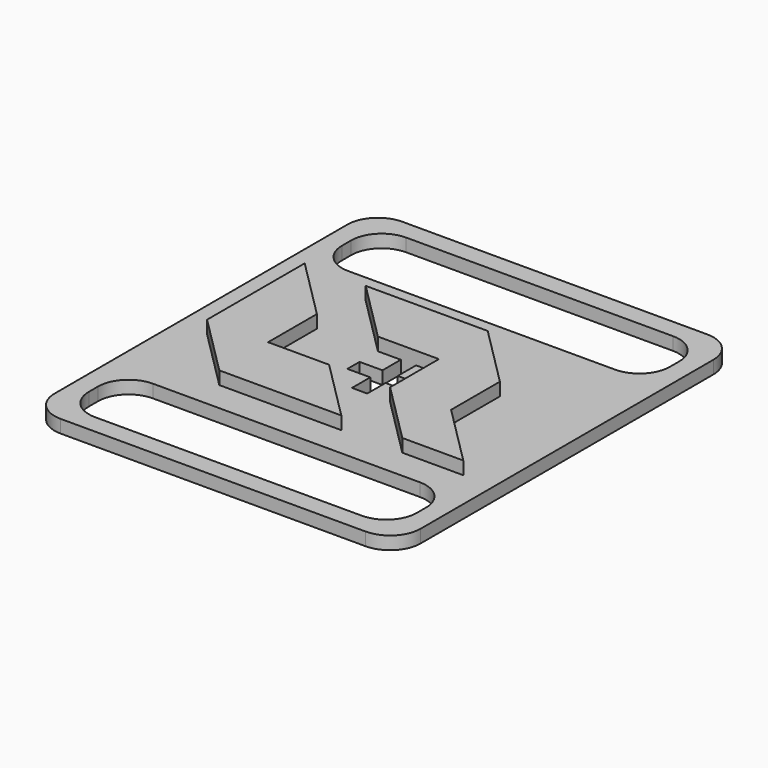
from build123d import *

# Parameters (mm, degrees)
F1_DEPTH = 4.318
F0_W     = 60.96
F0_H     = 71.12
F0_W_2   = 54.61
F0_H_2   = 12.065
F0_W_3   = 3.81
F0_H_3   = 3.81
F2_DEPTH = 2.159
F3_R     = 5.08


with BuildPart() as f1:
    # F0 (on Top) → F1 (new body)
    with BuildSketch(Plane.XY):
        Polygon((-10.2077507393, 20.6597218627), (-20.3677507393, 30.8197218627), (-20.3677507393, 20.6597218627), align=None)
        Polygon((-10.2077507393, 20.6597218627), (-20.3677507393, 20.6597218627), (-20.3677507393, 10.4997218627), align=None)
        Polygon((-10.2077507393, 10.4997218627), (-10.2077507393, 20.6597218627), (-20.3677507393, 10.4997218627), align=None)
        Polygon((-10.2077507393, 10.4997218627), (-20.3677507393, 10.4997218627), (-10.2077507393, 0.3397218627), align=None)
        Polygon((-0.0477507393, 10.4997218627), (-10.2077507393, 10.4997218627), (-10.2077507393, 0.3397218627), (10.1122492607, 0.3397218627), align=None)
    extrude(amount=F1_DEPTH)



with BuildPart() as f1b:
    # F0 (on Top) → F1, piece 2 (new body)
    with BuildSketch(Plane.XY):
        Polygon((-0.0477507393, 30.8197218627), (-10.2077507393, 30.8197218627), (-0.0477507393, 20.6597218627), align=None)
        Polygon((10.1122492607, 20.6597218627), (-0.0477507393, 30.8197218627), (-0.0477507393, 20.6597218627), (3.7622492607, 20.6597218627), (6.3022492607, 20.6597218627), align=None)
        Polygon((10.1122492607, 30.8197218627), (-0.0477507393, 30.8197218627), (10.1122492607, 20.6597218627), align=None)
        Polygon((20.2722492607, 20.6597218627), (10.1122492607, 30.8197218627), (10.1122492607, 20.6597218627), align=None)
        Polygon((20.2722492607, 20.6597218627), (10.1122492607, 20.6597218627), (10.1122492607, 16.8497218627), (10.1122492607, 14.3097218627), (10.1122492607, 10.4997218627), (20.2722492607, 0.3397218627), (30.4322492607, 0.3397218627), (20.2722492607, 10.4997218627), align=None)
    extrude(amount=F1_DEPTH)


with BuildPart() as f1_1:
    add(f1.part)

    add(f1b.part)  # F2 merges F1b
    # F0 (on Top) → F2 (join)
    with BuildSketch(Plane.XY):
        with Locations((5.0322492607, 15.5797218627)):
            Rectangle(F0_W, F0_H)
        Polygon((-20.3677507393, 20.6597218627), (-20.3677507393, 30.8197218627), (-10.2077507393, 20.6597218627), (-10.2077507393, 10.4997218627), (-0.0477507393, 10.4997218627), (10.1122492607, 0.3397218627), (-10.2077507393, 0.3397218627), (-20.3677507393, 10.4997218627), align=None, mode=Mode.SUBTRACT)
        with Locations((5.0322492607, -10.7727781373)):
            Rectangle(F0_W_2, F0_H_2, mode=Mode.SUBTRACT)
        with Locations((5.0322492607, 41.9322218627)):
            Rectangle(F0_W_2, F0_H_2, mode=Mode.SUBTRACT)
        Polygon((-0.0477507393, 20.6597218627), (-10.2077507393, 30.8197218627), (-0.0477507393, 30.8197218627), (10.1122492607, 30.8197218627), (20.2722492607, 20.6597218627), (20.2722492607, 10.4997218627), (30.4322492607, 0.3397218627), (20.2722492607, 0.3397218627), (10.1122492607, 10.4997218627), (10.1122492607, 14.3097218627), (6.3022492607, 14.3097218627), (6.3022492607, 10.4997218627), (3.7622492607, 10.4997218627), (3.7622492607, 14.3097218627), (-0.0477507393, 14.3097218627), (-0.0477507393, 16.8497218627), (3.7622492607, 16.8497218627), (3.7622492607, 20.6597218627), align=None, mode=Mode.SUBTRACT)
        with Locations((8.2072492607, 18.7547218627)):
            Rectangle(F0_W_3, F0_H_3)
    extrude(amount=F2_DEPTH)

    # F3
    f3_edges = [f1_1.edges().sort_by_distance(p)[0] for p in [
        (-25.447751, -19.980278, 1.0795),
        (35.512249, -19.980278, 1.0795),
        (35.512249, 51.139722, 1.0795),
        (-25.447751, 51.139722, 1.0795),
        (-22.272751, -16.805278, 1.0795),
        (-22.272751, -4.740278, 1.0795),
        (-22.272751, 47.964722, 1.0795),
        (-22.272751, 35.899722, 1.0795),
        (32.337249, -16.805278, 1.0795),
        (32.337249, 35.899722, 1.0795),
        (32.337249, 47.964722, 1.0795),
        (32.337249, -4.740278, 1.0795),
    ]]
    fillet(f3_edges, radius=F3_R)


solid = f1_1.part
